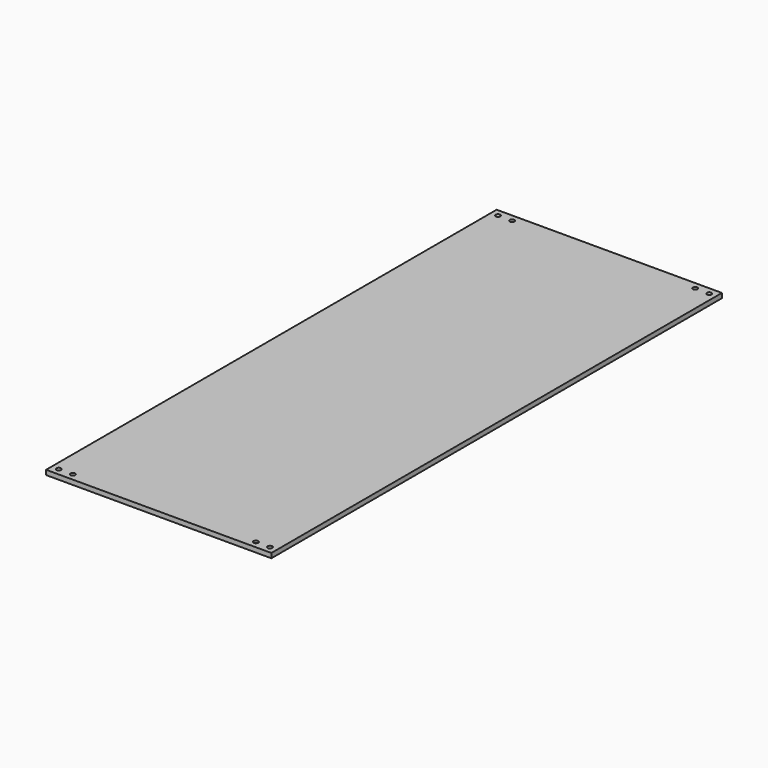
from build123d import *

# Parameters (mm, degrees)
F0_W     = 2438.4
F0_H     = 6096
F1_DEPTH = 50.8
F3_DEPTH = 25.4
F5_DEPTH = 25.4
F6_R     = 25.4
F7_DEPTH = 25.4
F8_DEPTH = 25.4
F9_DEPTH = 25.4


with BuildPart() as f1:
    # F0 (on Top) → F1 (new body)
    with BuildSketch(Plane.XY):
        Rectangle(F0_W, F0_H)
    extrude(amount=F1_DEPTH)

    # F2 (on face) → F3 (cut)
    with BuildSketch(Plane.XY.offset(50.8)):
        with BuildLine():
            Line((1143, 2971.8), (1168.4, 2971.8))
            ThreePointArc((1168.4, 2971.8), (1160.960512, 2989.760512), (1143, 2997.2))
            Line((1143, 2997.2), (1143, 2971.8))
        make_face()
        with BuildLine():
            ThreePointArc((1143, 2997.2), (1125.039488, 2953.839488), (1168.4, 2971.8))
            Line((1168.4, 2971.8), (1143, 2971.8))
            Line((1143, 2971.8), (1143, 2997.2))
        make_face()
        with BuildLine():
            Line((1143, -2971.8), (1143, -2997.2))
            ThreePointArc((1143, -2997.2), (1160.960512, -2989.760512), (1168.4, -2971.8))
            Line((1168.4, -2971.8), (1143, -2971.8))
        make_face()
        with BuildLine():
            ThreePointArc((1168.4, -2971.8), (1125.039488, -2953.839488), (1143, -2997.2))
            Line((1143, -2997.2), (1143, -2971.8))
            Line((1143, -2971.8), (1168.4, -2971.8))
        make_face()
        with BuildLine():
            ThreePointArc((-1168.4, -2971.8), (-1160.960512, -2989.760512), (-1143, -2997.2))
            Line((-1143, -2997.2), (-1143, -2971.8))
            Line((-1143, -2971.8), (-1168.4, -2971.8))
        make_face()
        with BuildLine():
            Line((-1143, -2971.8), (-1143, -2997.2))
            ThreePointArc((-1143, -2997.2), (-1125.039488, -2989.760512), (-1117.6, -2971.8))
            ThreePointArc((-1117.6, -2971.8), (-1143, -2946.4), (-1168.4, -2971.8))
            Line((-1168.4, -2971.8), (-1143, -2971.8))
        make_face()
        with BuildLine():
            ThreePointArc((-1143, 2997.2), (-1160.960512, 2989.760512), (-1168.4, 2971.8))
            Line((-1168.4, 2971.8), (-1143, 2971.8))
            Line((-1143, 2971.8), (-1143, 2997.2))
        make_face()
        with BuildLine():
            Line((-1143, 2971.8), (-1168.4, 2971.8))
            ThreePointArc((-1168.4, 2971.8), (-1143, 2946.4), (-1117.6, 2971.8))
            ThreePointArc((-1117.6, 2971.8), (-1125.039488, 2989.760512), (-1143, 2997.2))
            Line((-1143, 2997.2), (-1143, 2971.8))
        make_face()
    extrude(amount=-F3_DEPTH, mode=Mode.SUBTRACT)

    # F4 (on face) → F5 (cut)
    with BuildSketch(Plane.XY.offset(50.8)):
        with BuildLine():
            ThreePointArc((1016, -2971.8), (972.639488, -2953.839488), (990.6, -2997.2))
            Line((990.6, -2997.2), (990.6, -2971.8))
            Line((990.6, -2971.8), (1016, -2971.8))
        make_face()
        with BuildLine():
            Line((990.6, -2971.8), (990.6, -2997.2))
            ThreePointArc((990.6, -2997.2), (1008.560512, -2989.760512), (1016, -2971.8))
            Line((1016, -2971.8), (990.6, -2971.8))
        make_face()
        with BuildLine():
            Line((-990.6, -2971.8), (-1016, -2971.8))
            ThreePointArc((-1016, -2971.8), (-1008.560512, -2989.760512), (-990.6, -2997.2))
            Line((-990.6, -2997.2), (-990.6, -2971.8))
        make_face()
        with BuildLine():
            ThreePointArc((-965.2, -2971.8), (-990.6, -2946.4), (-1016, -2971.8))
            Line((-1016, -2971.8), (-990.6, -2971.8))
            Line((-990.6, -2971.8), (-990.6, -2997.2))
            ThreePointArc((-990.6, -2997.2), (-972.639488, -2989.760512), (-965.2, -2971.8))
        make_face()
        with BuildLine():
            ThreePointArc((1016, 2971.8), (1008.560512, 2989.760512), (990.6, 2997.2))
            Line((990.6, 2997.2), (990.6, 2971.8))
            Line((990.6, 2971.8), (1016, 2971.8))
        make_face()
        with BuildLine():
            Line((990.6, 2971.8), (990.6, 2997.2))
            ThreePointArc((990.6, 2997.2), (972.639488, 2953.839488), (1016, 2971.8))
            Line((1016, 2971.8), (990.6, 2971.8))
        make_face()
        with BuildLine():
            Line((-990.6, 2971.8), (-990.6, 2997.2))
            ThreePointArc((-990.6, 2997.2), (-1008.560512, 2989.760512), (-1016, 2971.8))
            Line((-1016, 2971.8), (-990.6, 2971.8))
        make_face()
        with BuildLine():
            ThreePointArc((-965.2, 2971.8), (-972.639488, 2989.760512), (-990.6, 2997.2))
            Line((-990.6, 2997.2), (-990.6, 2971.8))
            Line((-990.6, 2971.8), (-1016, 2971.8))
            ThreePointArc((-1016, 2971.8), (-990.6, 2946.4), (-965.2, 2971.8))
        make_face()
    extrude(amount=-F5_DEPTH, mode=Mode.SUBTRACT)

    # F6 (on face) → F7 (cut)
    with BuildSketch(Plane(origin=(0, 0, 0), x_dir=(1, 0, 0), z_dir=(0, 0, -1))):
        with Locations((-1168.4, -2463.8)):
            Circle(F6_R)
    extrude(amount=-F7_DEPTH, mode=Mode.SUBTRACT)

    # F6 (on face) → F8 (cut)
    with BuildSketch(Plane(origin=(0, 0, 0), x_dir=(1, 0, 0), z_dir=(0, 0, -1))):
        with Locations((-1168.4, -2463.8)):
            Circle(F6_R)
        with BuildLine():
            ThreePointArc((1193.8, -2463.8), (1168.4, -2438.4), (1143, -2463.8))
            ThreePointArc((1143, -2463.8), (1168.4, -2489.2), (1193.8, -2463.8))
        make_face()
        with Locations((-1168.4, 2997.2)):
            Circle(F6_R)
        with Locations((1168.4, 2997.2)):
            Circle(F6_R)
    extrude(amount=-F8_DEPTH, mode=Mode.SUBTRACT)

    # F6 (on face) → F9 (cut)
    with BuildSketch(Plane(origin=(0, 0, 0), x_dir=(1, 0, 0), z_dir=(0, 0, -1))):
        with Locations((-1168.4, -2463.8)):
            Circle(F6_R)
        with BuildLine():
            ThreePointArc((1193.8, -2463.8), (1168.4, -2438.4), (1143, -2463.8))
            ThreePointArc((1143, -2463.8), (1168.4, -2489.2), (1193.8, -2463.8))
        make_face()
        with Locations((-1168.4, 2997.2)):
            Circle(F6_R)
        with Locations((1168.4, 2997.2)):
            Circle(F6_R)
    extrude(amount=-F9_DEPTH, mode=Mode.SUBTRACT)


solid = f1.part
